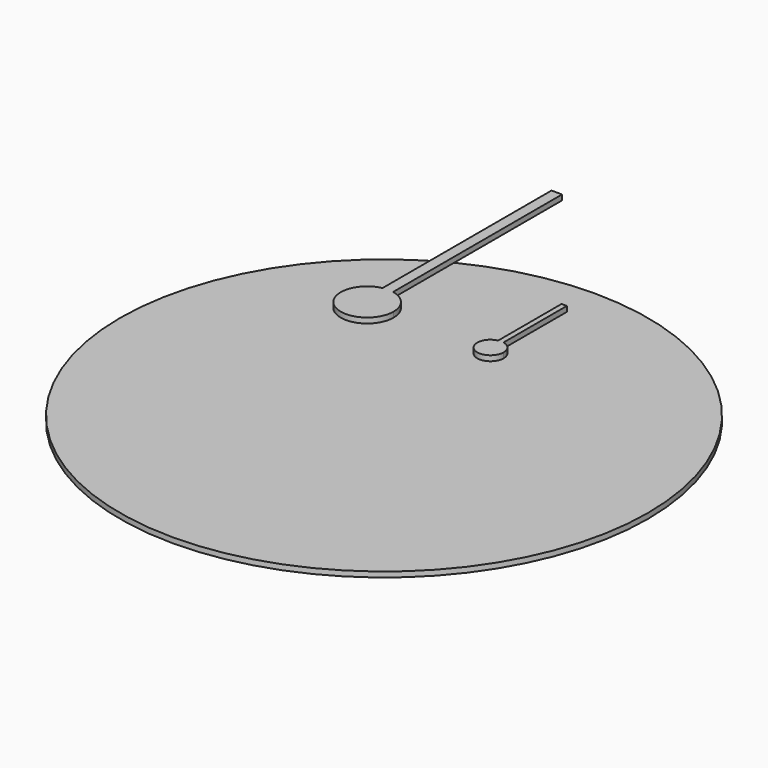
from build123d import *

# Parameters (mm, degrees)
F1_DEPTH = 2.54
F3_DEPTH = 2.54
F4_R     = 127
F5_DEPTH = 2.54


with BuildPart() as f1:
    # F0 (on Top) → F1 (new body)
    with BuildSketch(Plane.XY):
        with BuildLine():
            ThreePointArc((-2.54, 12.443408), (-8.032185, -9.837378), (12.7, 0))
            ThreePointArc((12.7, 0), (9.837378, 8.032185), (2.54, 12.443408))
            ThreePointArc((2.54, 12.443408), (0, 12.7), (-2.54, 12.443408))
        make_face()
        with BuildLine():
            ThreePointArc((-2.54, 12.443408), (0, 12.7), (2.54, 12.443408))
            Line((2.54, 12.443408), (2.54, 114.043408))
            Line((2.54, 114.043408), (0, 114.043408))
            Line((0, 114.043408), (-2.54, 114.043408))
            Line((-2.54, 114.043408), (-2.54, 12.443408))
        make_face()
    extrude(amount=F1_DEPTH)


with BuildPart() as f3:
    # F2 (on Top) → F3 (new body)
    with BuildSketch(Plane.XY):
        with BuildLine():
            ThreePointArc((58.05816, 6.221704), (55.312067, -4.918689), (65.67816, 0))
            ThreePointArc((65.67816, 0), (64.246849, 4.016093), (60.59816, 6.221704))
            ThreePointArc((60.59816, 6.221704), (59.32816, 6.35), (58.05816, 6.221704))
        make_face()
        with BuildLine():
            ThreePointArc((58.05816, 6.221704), (59.32816, 6.35), (60.59816, 6.221704))
            Line((60.59816, 6.221704), (60.59816, 44.321704))
            Line((60.59816, 44.321704), (59.32816, 44.321704))
            Line((59.32816, 44.321704), (58.05816, 44.321704))
            Line((58.05816, 44.321704), (58.05816, 6.221704))
        make_face()
    extrude(amount=F3_DEPTH)


with BuildPart() as f5:
    # F4 (on Top) → F5 (new body)
    with BuildSketch(Plane.XY):
        with Locations((59.588518, -64.350128)):
            Circle(F4_R)
    extrude(amount=-F5_DEPTH)


solid = Compound([f1.part, f3.part, f5.part])
